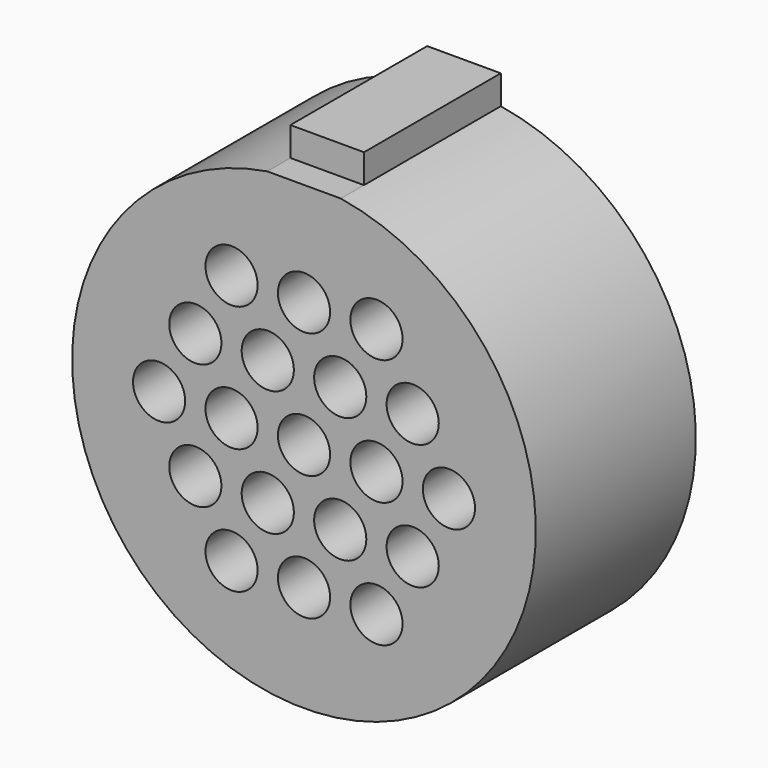
from build123d import *

# Parameters (mm, degrees)
F0_R     = 0.9
F1_DEPTH = 6.9
F2_W     = 1
F2_H     = 1
F3_DEPTH = 2.54


with BuildPart() as f1:
    # F0 (on Front) → F1 (new body)
    with BuildSketch(Plane.XZ):
        with BuildLine():
            Line((-1.27, 8.89855), (-1.27, 7.89855))
            ThreePointArc((-1.27, 7.89855), (0, -8), (1.27, 7.89855))
            Line((1.27, 7.89855), (1.27, 8.89855))
            Line((1.27, 8.89855), (-1.27, 8.89855))
        make_face()
        with Locations((-2.5, -4.330127)):
            Circle(F0_R, mode=Mode.SUBTRACT)
        with Locations((-5, 0)):
            Circle(F0_R, mode=Mode.SUBTRACT)
        with Locations((-3.75, -2.165064)):
            Circle(F0_R, mode=Mode.SUBTRACT)
        with Locations((-1.25, -2.165064)):
            Circle(F0_R, mode=Mode.SUBTRACT)
        with Locations((-2.5, 0)):
            Circle(F0_R, mode=Mode.SUBTRACT)
        with Locations((0, -4.330127)):
            Circle(F0_R, mode=Mode.SUBTRACT)
        with Locations((2.5, -4.330127)):
            Circle(F0_R, mode=Mode.SUBTRACT)
        with Locations((1.25, -2.165064)):
            Circle(F0_R, mode=Mode.SUBTRACT)
        with Locations((3.75, -2.165064)):
            Circle(F0_R, mode=Mode.SUBTRACT)
        Circle(F0_R, mode=Mode.SUBTRACT)
        with Locations((2.5, 0)):
            Circle(F0_R, mode=Mode.SUBTRACT)
        with Locations((5, 0)):
            Circle(F0_R, mode=Mode.SUBTRACT)
        with Locations((-3.75, 2.165064)):
            Circle(F0_R, mode=Mode.SUBTRACT)
        with Locations((-1.25, 2.165064)):
            Circle(F0_R, mode=Mode.SUBTRACT)
        with Locations((-2.5, 4.330127)):
            Circle(F0_R, mode=Mode.SUBTRACT)
        with Locations((1.25, 2.165064)):
            Circle(F0_R, mode=Mode.SUBTRACT)
        with Locations((3.75, 2.165064)):
            Circle(F0_R, mode=Mode.SUBTRACT)
        with Locations((0, 4.330127)):
            Circle(F0_R, mode=Mode.SUBTRACT)
        with Locations((2.5, 4.330127)):
            Circle(F0_R, mode=Mode.SUBTRACT)
    extrude(amount=F1_DEPTH)

    # F2 (on face) → F3 (cut)
    with BuildSketch(Plane(origin=(-1.27, 0, 0), x_dir=(0, -1, 0), z_dir=(-1, 0, 0))):
        with Locations((6.4, 8.39855)):
            Rectangle(F2_W, F2_H)
    extrude(amount=-F3_DEPTH, mode=Mode.SUBTRACT)


solid = f1.part
